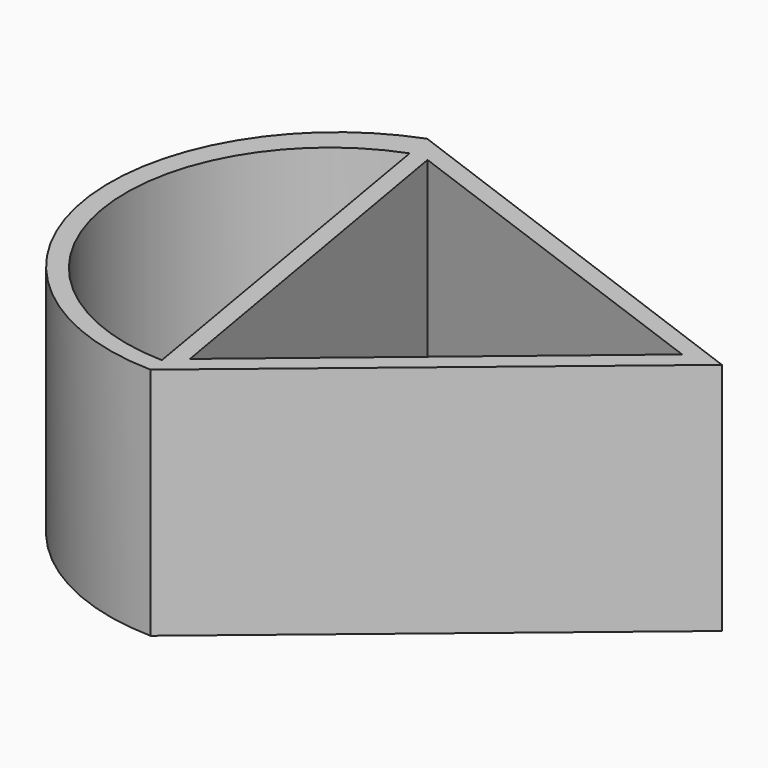
from build123d import *

# Parameters (mm, degrees)
F1_DEPTH = 101.6


with BuildPart() as f1:
    # F0 (on Top) → F1 (new body)
    with BuildSketch(Plane.XY):
        Polygon((-38.758028, -104.798459), (110.137142, 18.833792), (-71.379113, 85.964666), (-69.320055, 73.923605), (-40.099562, -96.953376), align=None)
        Polygon((-61.59973, 73.923605), (94.819585, 16.385128), (-33.219855, -90.308734), align=None, mode=Mode.SUBTRACT)
        with BuildLine():
            ThreePointArc((-71.379113, 85.964666), (-133.798783, -22.880006), (-38.758028, -104.798459))
            Line((-38.758028, -104.798459), (-40.099562, -96.953376))
            ThreePointArc((-40.099562, -96.953376), (-125.023249, -23.538701), (-69.320055, 73.923605))
            Line((-69.320055, 73.923605), (-71.379113, 85.964666))
        make_face()
    extrude(amount=F1_DEPTH)


solid = f1.part
